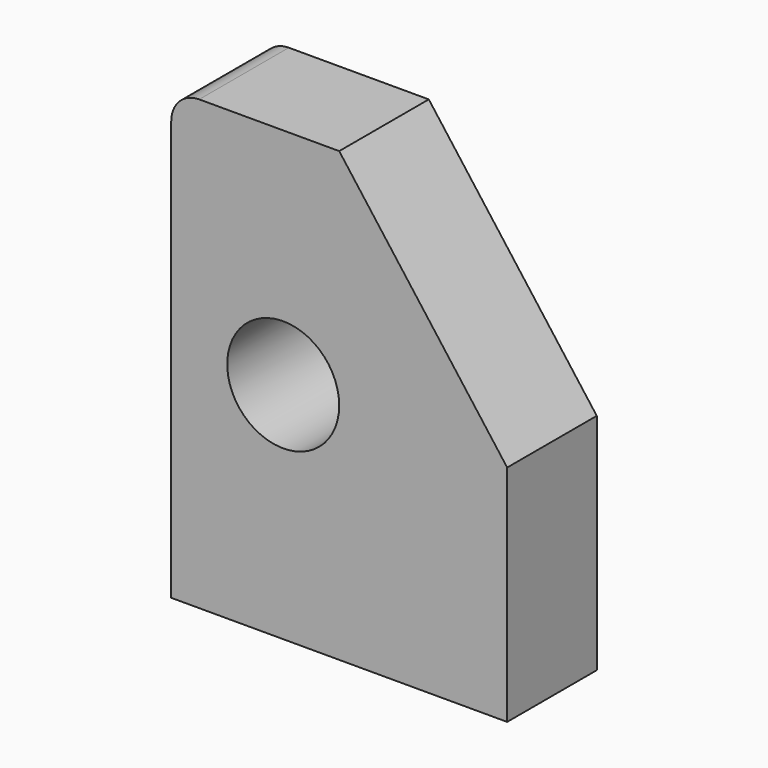
from build123d import *

# Parameters (mm, degrees)
F0_R     = 12.7
F1_DEPTH = 25.4


with BuildPart() as f1:
    # F0 (on Front) → F1 (new body)
    with BuildSketch(Plane.XZ):
        with BuildLine():
            Line((0, 50.8), (-31.75, 50.8))
            ThreePointArc((-31.75, 50.8), (-36.240128, 48.940128), (-38.1, 44.45))
            Line((-38.1, 44.45), (-38.1, -50.8))
            Line((-38.1, -50.8), (38.1, -50.8))
            Line((38.1, -50.8), (38.1, 0))
            Line((38.1, 0), (0, 50.8))
        make_face()
        with Locations((-12.7, 0)):
            Circle(F0_R, mode=Mode.SUBTRACT)
    extrude(amount=F1_DEPTH)


solid = f1.part
